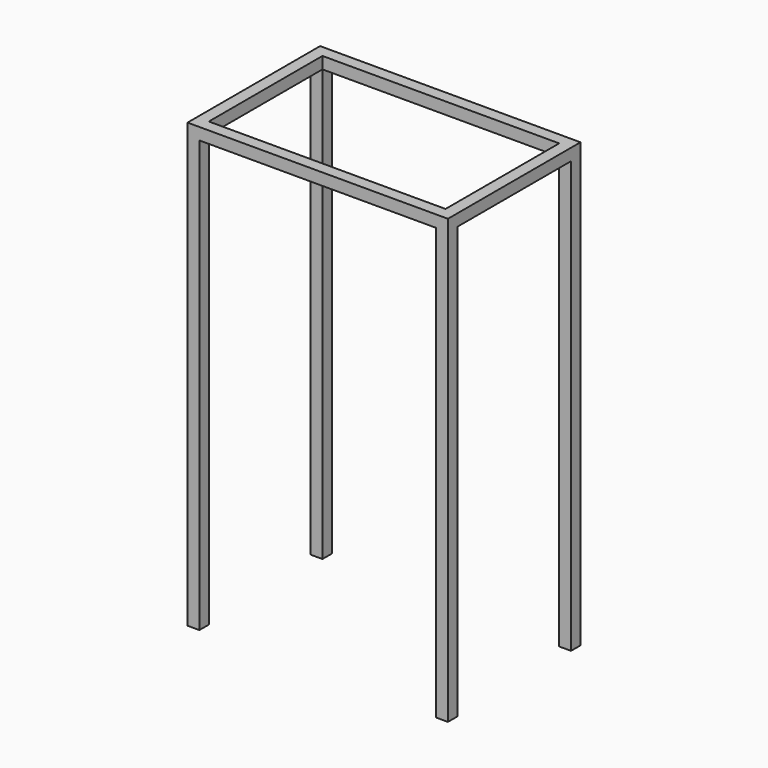
from build123d import *

# Parameters (mm, degrees)
F0_W     = 279.4
F0_H     = 177.8
F0_W_2   = 254
F0_H_2   = 152.4
F1_DEPTH = 12.7
F2_W     = 12.7
F2_H     = 12.7
F3_DEPTH = 475.276887


with BuildPart() as f1:
    # F0 (on Top) → F1 (new body)
    with BuildSketch(Plane.XY):
        Rectangle(F0_W, F0_H)
        Rectangle(F0_W_2, F0_H_2, mode=Mode.SUBTRACT)
    extrude(amount=F1_DEPTH)

    # F2 (on face) → F3 (join)
    with BuildSketch(Plane.XY.offset(12.7)):
        with Locations((-133.35, -82.55)):
            Rectangle(F2_W, F2_H)
        with Locations((-133.35, 82.55)):
            Rectangle(F2_W, F2_H)
        with Locations((133.35, -82.55)):
            Rectangle(F2_W, F2_H)
        with Locations((133.35, 82.55)):
            Rectangle(F2_W, F2_H)
    extrude(amount=-F3_DEPTH)


solid = f1.part
